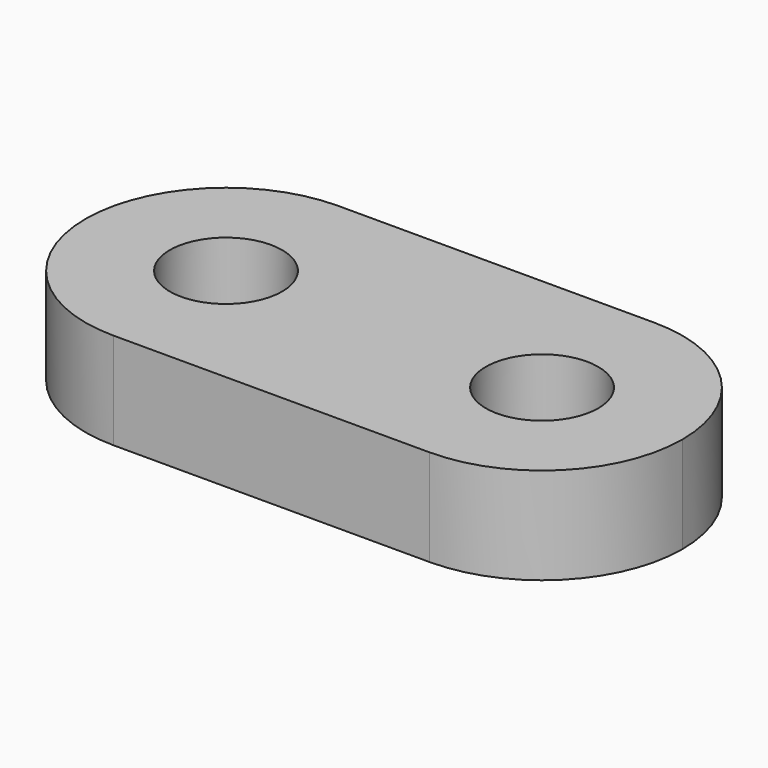
from build123d import *

# Parameters (mm, degrees)
F0_R     = 1.6
F1_DEPTH = 2.75


with BuildPart() as f1:
    # F0 (on Top) → F1 (new body)
    with BuildSketch(Plane.XY):
        with BuildLine():
            ThreePointArc((-0.5, 0), (-1.671573, 2.828427), (-4.5, 4))
            ThreePointArc((-4.5, 4), (-8.5, -0.00086), (-4.49828, -4))
            ThreePointArc((-4.49828, -4), (-1.670965, -2.827819), (-0.5, 0))
        make_face()
        with Locations((-4.5, 0)):
            Circle(F0_R, mode=Mode.SUBTRACT)
        with BuildLine():
            ThreePointArc((4.5, -4), (0.5, 0), (4.5, 4))
            Line((4.5, 4), (-4.5, 4))
            ThreePointArc((-4.5, 4), (-1.671573, 2.828427), (-0.5, 0))
            ThreePointArc((-0.5, 0), (-1.670965, -2.827819), (-4.49828, -4))
            Line((-4.49828, -4), (4.5, -4))
        make_face()
        with BuildLine():
            ThreePointArc((4.5, -4), (7.328427, -2.828427), (8.5, 0))
            ThreePointArc((8.5, 0), (7.328427, 2.828427), (4.5, 4))
            ThreePointArc((4.5, 4), (0.5, 0), (4.5, -4))
        make_face()
        with Locations((4.5, 0)):
            Circle(F0_R, mode=Mode.SUBTRACT)
    extrude(amount=F1_DEPTH)


solid = f1.part
